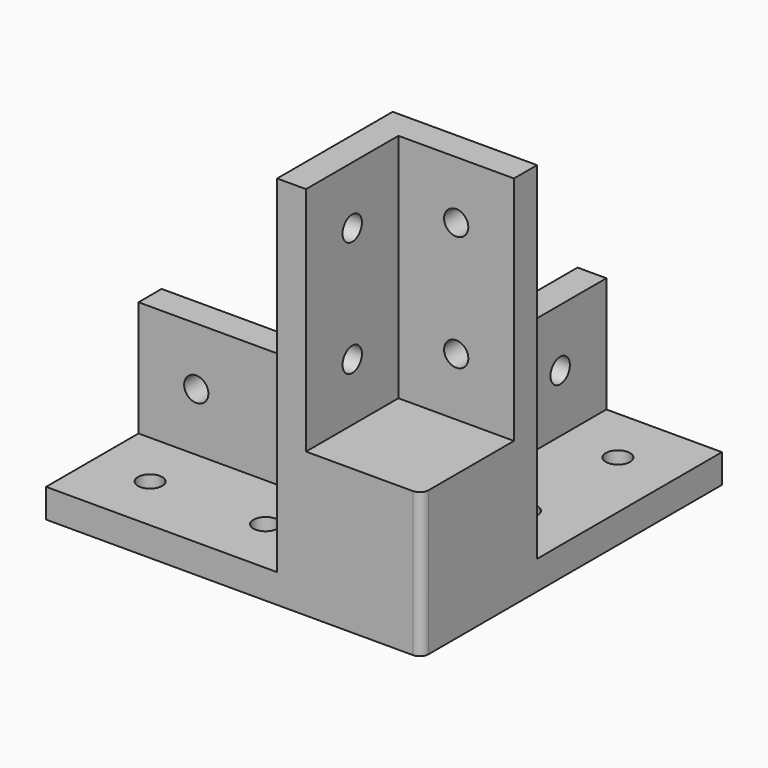
from build123d import *

# Parameters (mm, degrees)
F1_DEPTH     = 5
F3_DEPTH     = 20
F5_DEPTH     = 40
F6_W         = 20
F6_H         = 20
F7_DEPTH     = 20
F8_R         = 1.5
F12_D        = 4.2
F12_ON_F11_D = 4.2
F12_ON_F10_D = 4.2


with BuildPart() as f1:
    # F0 (on Top) → F1 (new body)
    with BuildSketch(Plane.XY):
        with BuildLine():
            Line((-65, 0), (0, 0))
            Line((0, 0), (0, 65))
            Line((0, 65), (-25, 65))
            ThreePointArc((-25, 65), (-38.7994204149, 38.7994204149), (-65, 25))
            Line((-65, 25), (-65, 0))
        make_face()
    extrude(amount=F1_DEPTH)

    # F2 (on face) → F3 (join)
    with BuildSketch(Plane.XY.offset(5)):
        Polygon((-25, 25), (-65, 25), (-65, 20), (-25, 20), (-25, 0), (-20, 0), (-20, 20), (0, 20), (0, 25), (-20, 25), (-20, 65), (-25, 65), align=None)
    extrude(amount=F3_DEPTH)

    # F4 (on face) → F5 (join)
    with BuildSketch(Plane.XY.offset(25)):
        Polygon((0, 25), (-25, 25), (-25, 0), (-20, 0), (-20, 20), (0, 20), align=None)
    extrude(amount=F5_DEPTH)

    # F6 (on face) → F7 (join)
    with BuildSketch(Plane.XY.offset(5)):
        with Locations((-10, 10)):
            Rectangle(F6_W, F6_H)
    extrude(amount=F7_DEPTH)

    # F8
    f8_edges = [f1.edges().sort_by_distance(p)[0] for p in [
        (0, 0, 12.5),
    ]]
    fillet(f8_edges, radius=F8_R)

    # F12 (through all)
    with Locations(Plane.XZ.offset(-20)):
        with Locations((-55, 15), (-35, 15), (-10, 35), (-10, 55)):
            Hole(F12_D / 2)

    # F12 on F11 (through all)
    with Locations(Plane.XY.offset(5)):
        with Locations((-35, 10), (-55, 10), (-10, 55), (-10, 35)):
            Hole(F12_ON_F11_D / 2)

    # F12 on F10 (through all)
    with Locations(Plane.YZ.offset(-20)):
        with Locations((10, 35), (10, 55), (35, 15), (55, 15)):
            Hole(F12_ON_F10_D / 2)


solid = f1.part
